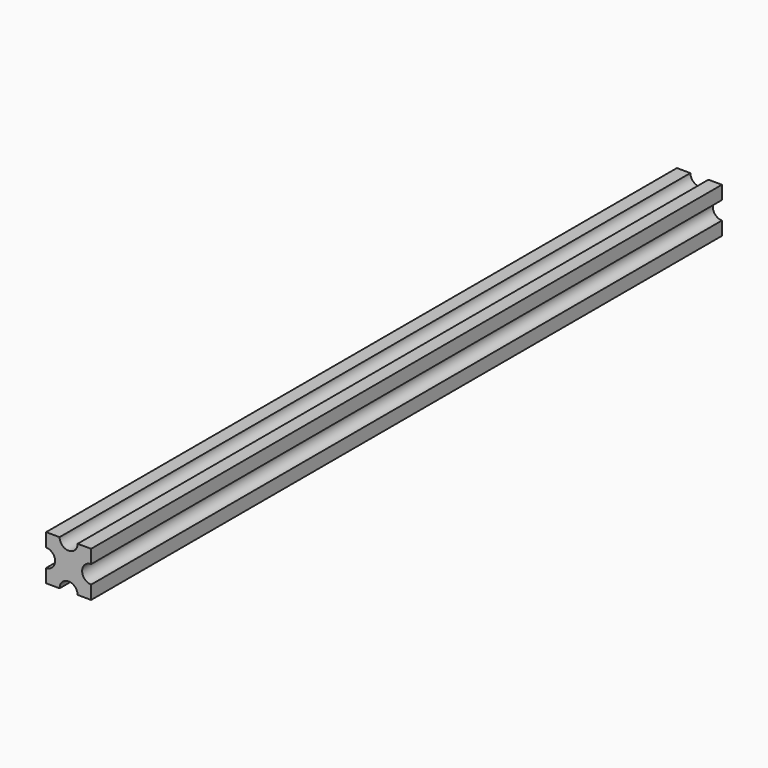
from build123d import *

# Parameters (mm, degrees)
F1_DEPTH = 700


with BuildPart() as f1:
    # F0 (on Front) → F1 (new body)
    with BuildSketch(Plane.XZ):
        with BuildLine():
            Line((8, -20), (20, -20))
            Line((20, -20), (20, -8))
            ThreePointArc((20, -8), (12, 0), (20, 8))
            Line((20, 8), (20, 20))
            Line((20, 20), (8, 20))
            ThreePointArc((8, 20), (0, 12), (-8, 20))
            Line((-8, 20), (-20, 20))
            Line((-20, 20), (-20, 8))
            ThreePointArc((-20, 8), (-14.343146, 5.656854), (-12, 0))
            ThreePointArc((-12, 0), (-14.343146, -5.656854), (-20, -8))
            Line((-20, -8), (-20, -20))
            Line((-20, -20), (-8, -20))
            ThreePointArc((-8, -20), (0, -12), (8, -20))
        make_face()
    extrude(amount=F1_DEPTH)


solid = f1.part
